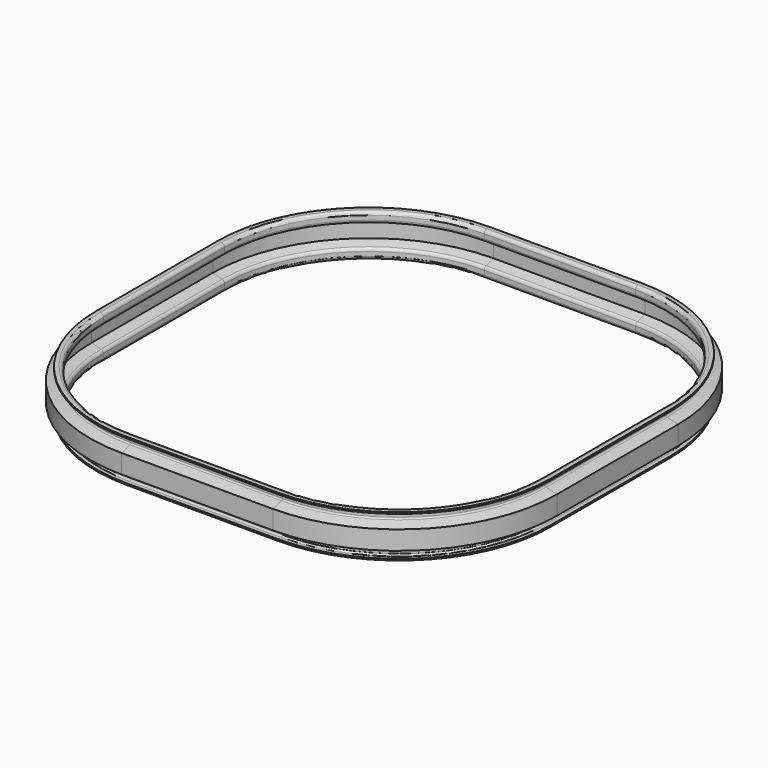
from build123d import *


with BuildPart() as f2:
    # F2: sweep along a path in F0
    with BuildLine(Plane.XY) as f2_path:
        Line((148, 48), (148, -48))
        ThreePointArc((148, -48), (118.710678, -118.710678), (48, -148))
        Line((48, -148), (-48, -148))
        ThreePointArc((-48, -148), (-118.710678, -118.710678), (-148, -48))
        Line((-148, -48), (-148, 48))
        ThreePointArc((-148, 48), (-118.710678, 118.710678), (-48, 148))
        Line((-48, 148), (48, 148))
        ThreePointArc((48, 148), (118.710678, 118.710678), (148, 48))
    # F1 (on Front) → F2 (sweep)
    with BuildSketch(Plane.XZ):
        with BuildLine():
            Line((148, -6), (148, 6))
            Line((148, 6), (141.241181, 7.81102))
            ThreePointArc((141.241181, 7.81102), (140.706647, 8.168185), (140.5, 8.776946))
            Line((140.5, 8.776946), (140.5, 11.5))
            ThreePointArc((140.5, 11.5), (140.792893, 12.207107), (141.5, 12.5))
            Line((141.5, 12.5), (144, 12.5))
            Line((144, 12.5), (144, 13.5))
            Line((144, 13.5), (141.5, 13.5))
            ThreePointArc((141.5, 13.5), (140.085786, 12.914214), (139.5, 11.5))
            Line((139.5, 11.5), (139.5, 8.776946))
            ThreePointArc((139.5, 8.776946), (139.913293, 7.559423), (140.982362, 6.845094))
            Line((140.982362, 6.845094), (147, 5.232673))
            Line((147, 5.232673), (147, 0))
            Line((147, 0), (147, -5.232673))
            Line((147, -5.232673), (140.982362, -6.845094))
            ThreePointArc((140.982362, -6.845094), (139.913293, -7.559423), (139.5, -8.776946))
            Line((139.5, -8.776946), (139.5, -11.5))
            ThreePointArc((139.5, -11.5), (140.085786, -12.914214), (141.5, -13.5))
            Line((141.5, -13.5), (144, -13.5))
            Line((144, -13.5), (144, -12.5))
            Line((144, -12.5), (141.5, -12.5))
            ThreePointArc((141.5, -12.5), (140.792893, -12.207107), (140.5, -11.5))
            Line((140.5, -11.5), (140.5, -8.776946))
            ThreePointArc((140.5, -8.776946), (140.706647, -8.168185), (141.241181, -7.81102))
            Line((141.241181, -7.81102), (148, -6))
        make_face()
    sweep(path=f2_path.line)


solid = f2.part
